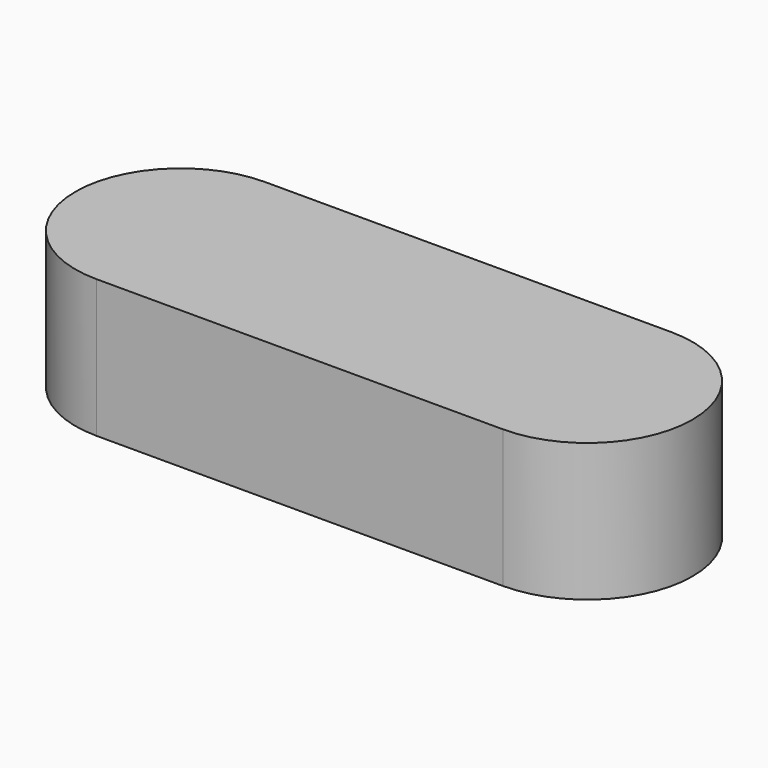
from build123d import *

# Parameters (mm, degrees)
PAD_DEPTH = 19


with BuildPart() as part:
    # Sketch → Pad (new body)
    with BuildSketch(Plane.XY):
        with BuildLine():
            ThreePointArc((-28, 14.5), (-42.5, 0), (-28, -14.5))
            Line((-28, -14.5), (28, -14.5))
            ThreePointArc((28, -14.5), (42.5, 0), (28, 14.5))
            Line((28, 14.5), (-28, 14.5))
        make_face()
    extrude(amount=PAD_DEPTH)


solid = part.part
